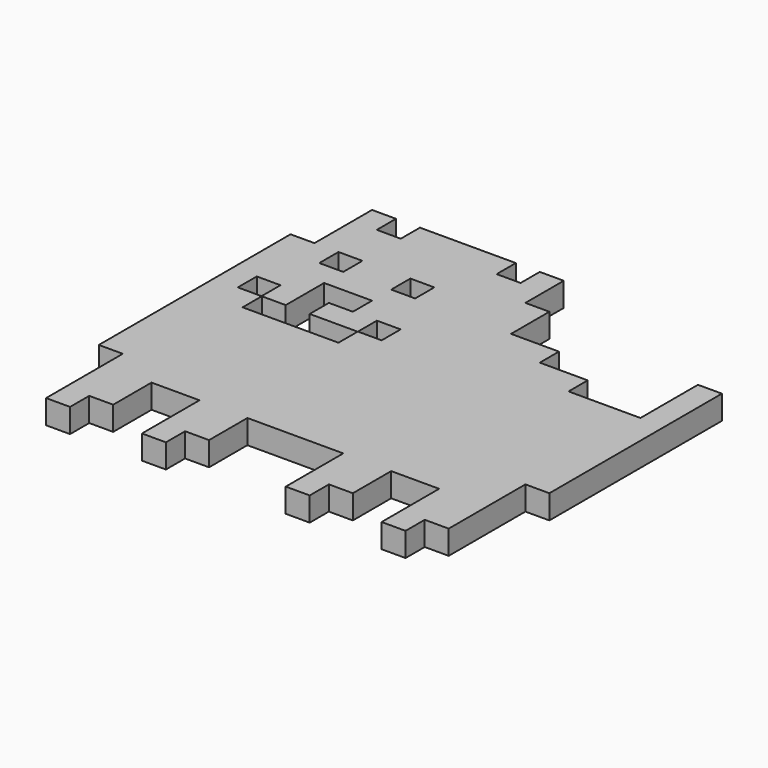
from build123d import *

# Parameters (mm, degrees)
F1_DEPTH  = 5
F3_DEPTH  = 25
F4_W      = 5
F4_H      = 5
F5_DEPTH  = 25
F6_W      = 5
F6_H      = 5
F7_DEPTH  = 25
F8_W      = 4.95
F8_H      = 4.95
F9_DEPTH  = 25
F10_W     = 4.95
F10_H     = 4.95
F11_DEPTH = 25


with BuildPart() as f1:
    # F0 (on Top) → F1 (new body)
    with BuildSketch(Plane.XY):
        Polygon((5, 25), (0, 25), (0, -25), (5, -25), (5, -45), (10, -45), (10, -40), (15, -40), (15, -30), (25, -30), (25, -45), (30, -45), (30, -40), (35, -40), (35, -30), (55, -30), (55, -45), (60, -45), (60, -40), (65, -40), (65, -30), (75, -30), (75, -45), (80, -45), (80, -40), (85, -40), (85, -20), (90, -20), (90, 25), (85, 25), (85, 10), (70, 10), (70, 15), (60, 15), (60, 20), (50, 20), (50, 30), (45, 30), (45, 40), (40, 40), (40, 35), (35, 35), (35, 40), (15, 40), (15, 35), (10, 35), (10, 40), (5, 40), align=None)
    extrude(amount=F1_DEPTH)

    # F2 (on face) → F3 (cut)
    with BuildSketch(Plane.XY.offset(5)):
        Polygon((15, 5), (10, 5), (10, 0), (30, 0), (30, 5), (20, 5), (20, 10), (25, 10), (25, 15), (15, 15), align=None)
    extrude(amount=-F3_DEPTH, mode=Mode.SUBTRACT)

    # F4 (on face) → F5 (cut)
    with BuildSketch(Plane.XY.offset(5)):
        with Locations((12.5, 22.5)):
            Rectangle(F4_W, F4_H)
    extrude(amount=-F5_DEPTH, mode=Mode.SUBTRACT)

    # F6 (on face) → F7 (cut)
    with BuildSketch(Plane.XY.offset(5)):
        with Locations((27.5, 22.5)):
            Rectangle(F6_W, F6_H)
    extrude(amount=-F7_DEPTH, mode=Mode.SUBTRACT)

    # F8 (on face) → F9 (cut)
    with BuildSketch(Plane.XY.offset(5)):
        with Locations((7.475, 7.475)):
            Rectangle(F8_W, F8_H)
    extrude(amount=-F9_DEPTH, mode=Mode.SUBTRACT)

    # F10 (on face) → F11 (cut)
    with BuildSketch(Plane.XY.offset(5)):
        with Locations((32.495, 7.525)):
            Rectangle(F10_W, F10_H)
    extrude(amount=-F11_DEPTH, mode=Mode.SUBTRACT)


solid = f1.part
